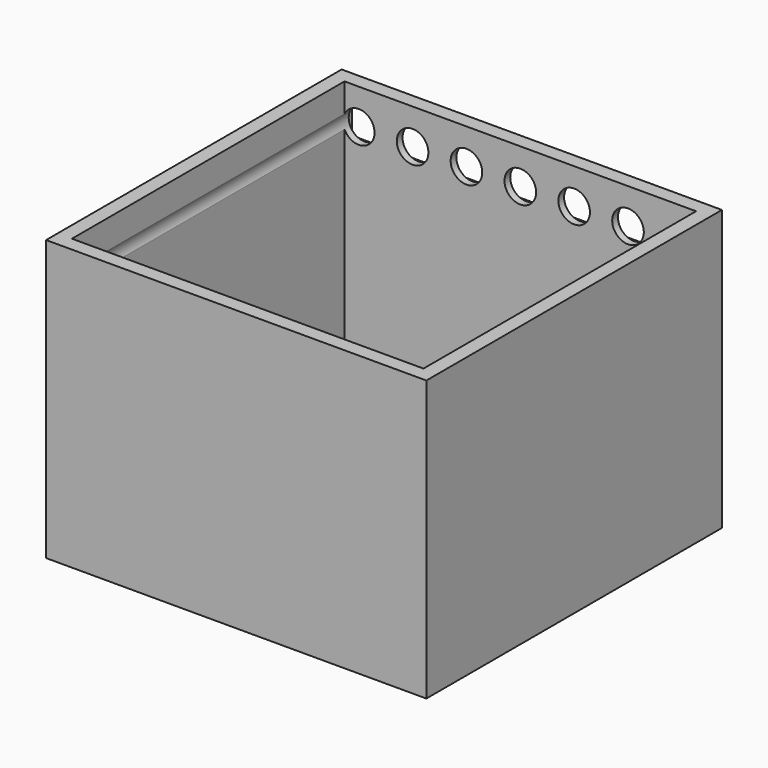
from build123d import *

# Parameters (mm, degrees)
F0_W     = 134.533889
F0_H     = 130.701862
F1_DEPTH = 99.06
F2_T     = -5.08
F3_R     = 5.588
F4_DEPTH = 127
F5_W     = 127.2032
F5_H     = 13.716
F5_R     = 5.588
F6_DEPTH = 2.54


with BuildPart() as f1:
    # F0 (on Top) → F1 (new body)
    with BuildSketch(Plane.XY):
        with Locations((1.950313, -1.526598)):
            Rectangle(F0_W, F0_H)
    extrude(amount=F1_DEPTH)

    # F2
    f2_openings = [f1.faces().sort_by_distance(p)[0] for p in [
        (1.950312, -1.526598, 99.06),
    ]]
    offset(amount=F2_T, openings=f2_openings)

    # F3 (on face) → F4 (cut)
    with BuildSketch(Plane(origin=(0, 63.824333, 0), x_dir=(-1, 0, 0), z_dir=(0, 1, 0))):
        with Locations((-1.950312, 86.518437)):
            Circle(F3_R)
        with Locations((-21.000312, 86.518437)):
            Circle(F3_R)
        with Locations((-40.050312, 86.518437)):
            Circle(F3_R)
        with Locations((-59.100312, 86.518437)):
            Circle(F3_R)
        with Locations((17.099688, 86.518437)):
            Circle(F3_R)
        with Locations((36.149688, 86.518437)):
            Circle(F3_R)
        with Locations((55.199688, 86.518437)):
            Circle(F3_R)
    extrude(amount=-F4_DEPTH, mode=Mode.SUBTRACT)

    # F5 (on face) → F6 (cut)
    with BuildSketch(Plane(origin=(0, 63.824333, 0), x_dir=(-1, 0, 0), z_dir=(0, 1, 0))):
        with Locations((-1.950312, 86.518437)):
            Rectangle(F5_W, F5_H)
        with Locations((-1.950312, 86.518437)):
            Circle(F5_R, mode=Mode.SUBTRACT)
    extrude(amount=-F6_DEPTH, mode=Mode.SUBTRACT)


solid = f1.part
